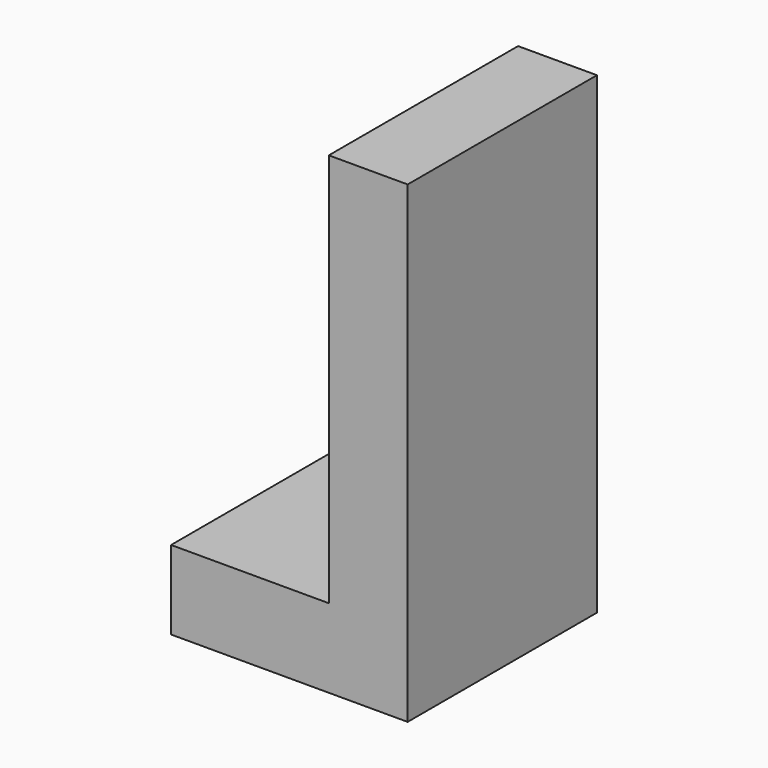
from build123d import *

# Parameters (mm, degrees)
F1_DEPTH      = 38.1
F1_DEPTH_BACK = 38.1


with BuildPart() as f1:
    # F0 (on Front) → F1 (new body, two sides)
    with BuildSketch(Plane.XZ) as f1_sk:
        Polygon((0, 0), (0, 152.4), (-25.4, 152.4), (-25.4, 25.4), (-76.2, 25.4), (-76.2, 0), align=None)
    extrude(amount=F1_DEPTH)
    extrude(f1_sk.sketch, amount=-F1_DEPTH_BACK)


solid = f1.part
